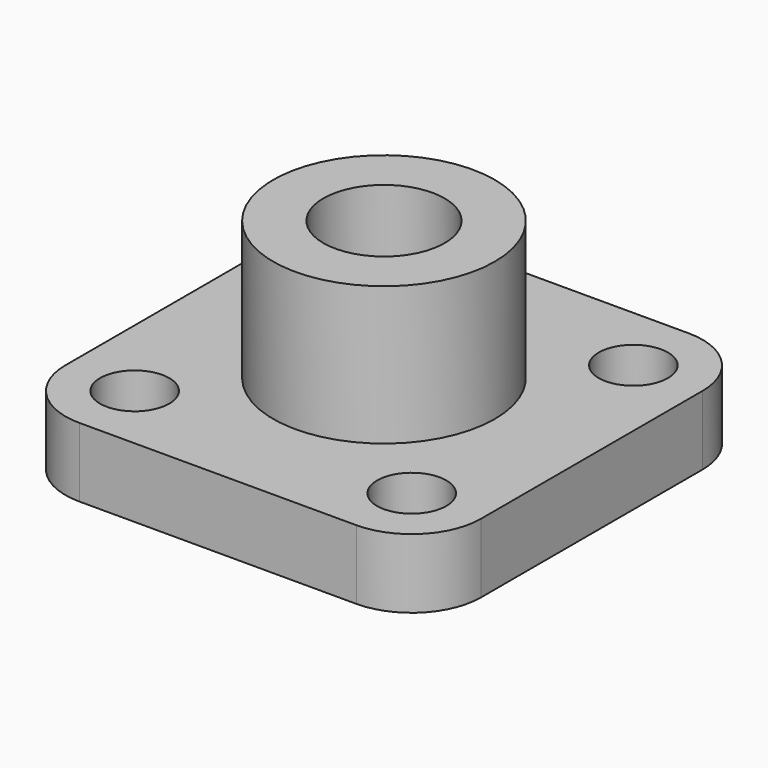
from build123d import *

# Parameters (mm, degrees)
F0_R     = 16
F1_DEPTH = 10
F2_D     = 10
F2_DEPTH = 10
F2_TIP   = 3.0043030951
F3_R     = 16
F4_DEPTH = 20
F6_D     = 17.5


with BuildPart() as f1:
    # F0 (on Top) → F1 (new body)
    with BuildSketch(Plane.XY):
        with BuildLine():
            ThreePointArc((30, 20), (27.0710678119, 27.0710678119), (20, 30))
            Line((20, 30), (-20, 30))
            ThreePointArc((-20, 30), (-27.0710678119, 27.0710678119), (-30, 20))
            Line((-30, 20), (-30, -20))
            ThreePointArc((-30, -20), (-27.0710678119, -27.0710678119), (-20, -30))
            Line((-20, -30), (20, -30))
            ThreePointArc((20, -30), (27.0710678119, -27.0710678119), (30, -20))
            Line((30, -20), (30, 20))
        make_face()
        Circle(F0_R, mode=Mode.SUBTRACT)
        Circle(F0_R)
    extrude(amount=F1_DEPTH)

    # F2
    with Locations(Plane(origin=(0, 0, 0), x_dir=(1, 0, 0), z_dir=(0, 0, -1))):
        with Locations((-20, -20), (20, -20), (20, 20), (-20, 20)):
            Hole(F2_D / 2, depth=F2_DEPTH)
            with Locations((0, 0, -(F2_DEPTH + F2_TIP / 2))):  # 118° drill point
                Cone(0, F2_D / 2, F2_TIP, mode=Mode.SUBTRACT)

    # F3 (on face) → F4 (join)
    with BuildSketch(Plane.XY.offset(10)):
        Circle(F3_R)
    extrude(amount=F4_DEPTH)

    # F6 (through all)
    with Locations(Plane.XY.offset(30)):
        with Locations((0, 0)):
            Hole(F6_D / 2)


solid = f1.part
